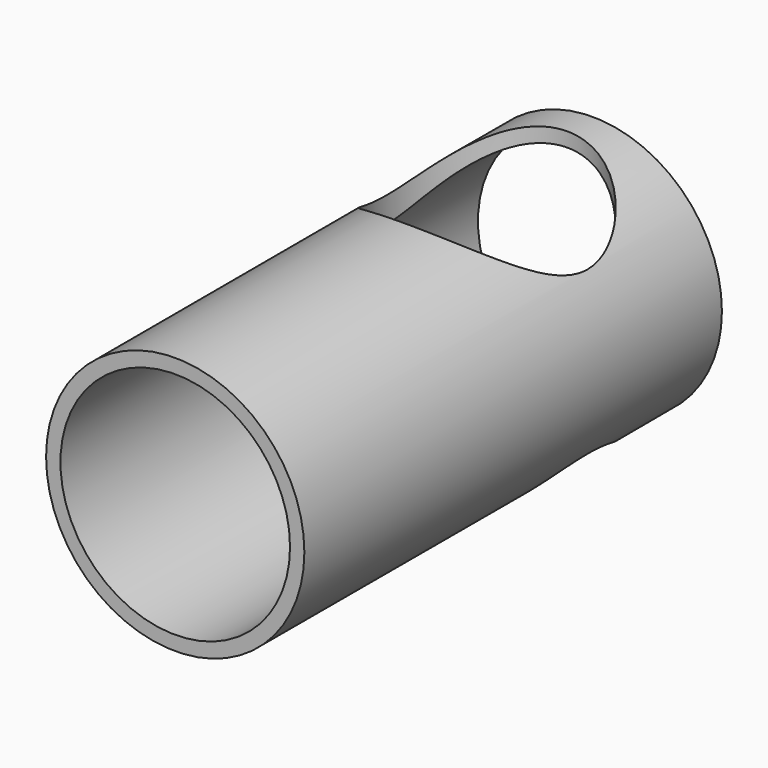
from build123d import *

# Parameters (mm, degrees)
F0_R          = 22.5
F0_R_2        = 20
F1_DEPTH      = 90.932
F2_R          = 17.5
F3_DEPTH      = 25
F3_DEPTH_BACK = 22.501


with BuildPart() as f1:
    # F0 (on Front) → F1 (new body)
    with BuildSketch(Plane.XZ):
        Circle(F0_R)
        Circle(F0_R_2, mode=Mode.SUBTRACT)
    extrude(amount=F1_DEPTH)

    # F2 (on Top) → F3 (cut, two sides)
    with BuildSketch(Plane.XY) as f3_sk:
        with Locations((0, -23)):
            Circle(F2_R)
    extrude(amount=F3_DEPTH, mode=Mode.SUBTRACT)
    extrude(f3_sk.sketch, amount=-F3_DEPTH_BACK, mode=Mode.SUBTRACT)


solid = f1.part
